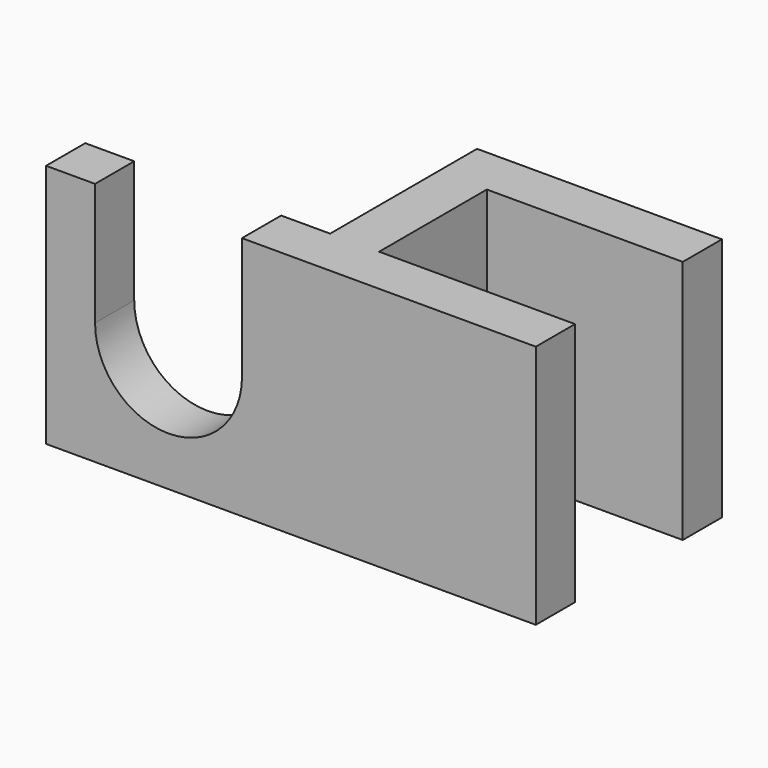
from build123d import *

# Parameters (mm, degrees)
F1_DEPTH = 10
F3_DEPTH = 25


with BuildPart() as f1:
    # F0 (on Top) → F1 (new body)
    with BuildSketch(Plane.XY):
        Polygon((2, -5.5), (2, 0), (10.000001, 0), (10.000001, 2), (0, 2), (0, 0), (0, -5.5), (-10, -5.5), (-10, -7.5), (0, -7.5), (10.000001, -7.5), (10.000001, -5.5), align=None)
        Polygon((2, -5.5), (2, 0), (10.000001, 0), (10.000001, 2), (0, 2), (0, 0), (0, -5.5), (-10, -5.5), (-10, -7.5), (0, -7.5), (10.000001, -7.5), (10.000001, -5.5), align=None)
    extrude(amount=F1_DEPTH)

    # F2 (on face) → F3 (cut)
    with BuildSketch(Plane(origin=(0, -5.5, 0), x_dir=(-1, 0, 0), z_dir=(0, 1, 0))):
        with BuildLine():
            ThreePointArc((2, 5), (5, 2), (8, 5))
            ThreePointArc((8, 5), (5, 8), (2, 5))
        make_face()
        with BuildLine():
            ThreePointArc((2, 5), (5, 8), (8, 5))
            Line((8, 5), (8, 10))
            Line((8, 10), (2, 10))
            Line((2, 10), (2, 5))
        make_face()
    extrude(amount=-F3_DEPTH, mode=Mode.SUBTRACT)


solid = f1.part
